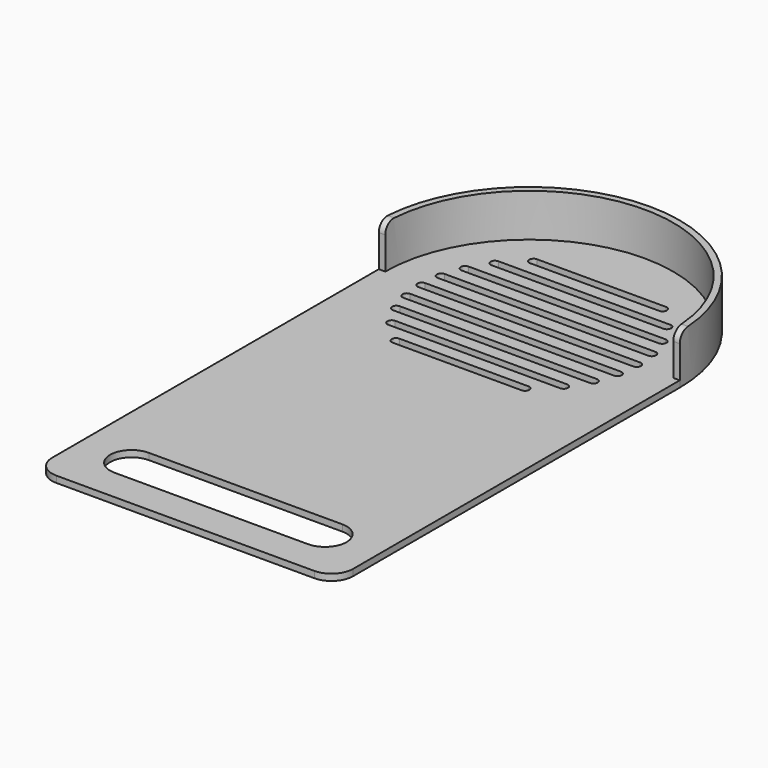
from build123d import *

# Parameters (mm, degrees)
F1_DEPTH = 3
F2_DEPTH = 20
F3_R     = 5


with BuildPart() as f1:
    # F0 (on Top) → F1 (new body)
    with BuildSketch(Plane.XY):
        with BuildLine():
            Line((70, -190), (70, 0))
            Line((70, 0), (67, 0))
            ThreePointArc((67, 0), (0, 67), (-67, 0))
            Line((-67, 0), (-70, 0))
            Line((-70, 0), (-70, -190))
            ThreePointArc((-70, -190), (-67.071068, -197.071068), (-60, -200))
            Line((-60, -200), (60, -200))
            ThreePointArc((60, -200), (67.071068, -197.071068), (70, -190))
        make_face()
        with BuildLine():
            Line((45, -185), (-45, -185))
            ThreePointArc((-45, -185), (-55, -175), (-45, -165))
            Line((-45, -165), (45, -165))
            ThreePointArc((45, -165), (55, -175), (45, -185))
        make_face(mode=Mode.SUBTRACT)
        with BuildLine():
            ThreePointArc((30, -38), (32, -40), (30, -42))
            Line((30, -42), (-30, -42))
            ThreePointArc((-30, -42), (-32, -40), (-30, -38))
            Line((-30, -38), (30, -38))
        make_face(mode=Mode.SUBTRACT)
        with BuildLine():
            ThreePointArc((-40, -32), (-42, -30), (-40, -28))
            Line((-40, -28), (40, -28))
            ThreePointArc((40, -28), (42, -30), (40, -32))
            Line((40, -32), (-40, -32))
        make_face(mode=Mode.SUBTRACT)
        with BuildLine():
            ThreePointArc((45.825757, -18), (47.825757, -20), (45.825757, -22))
            Line((45.825757, -22), (-45.825757, -22))
            ThreePointArc((-45.825757, -22), (-47.825757, -20), (-45.825757, -18))
            Line((-45.825757, -18), (45.825757, -18))
        make_face(mode=Mode.SUBTRACT)
        with BuildLine():
            ThreePointArc((-48.989795, -12), (-50.989795, -10), (-48.989795, -8))
            Line((-48.989795, -8), (48.989795, -8))
            ThreePointArc((48.989795, -8), (50.989795, -10), (48.989795, -12))
            Line((48.989795, -12), (-48.989795, -12))
        make_face(mode=Mode.SUBTRACT)
        with BuildLine():
            Line((50, -2), (-50, -2))
            ThreePointArc((-50, -2), (-52, 0), (-50, 2))
            Line((-50, 2), (50, 2))
            ThreePointArc((50, 2), (52, 0), (50, -2))
        make_face(mode=Mode.SUBTRACT)
        with BuildLine():
            Line((48.989795, 8), (-48.989795, 8))
            ThreePointArc((-48.989795, 8), (-50.989795, 10), (-48.989795, 12))
            Line((-48.989795, 12), (48.989795, 12))
            ThreePointArc((48.989795, 12), (50.989795, 10), (48.989795, 8))
        make_face(mode=Mode.SUBTRACT)
        with BuildLine():
            Line((45.825757, 18), (-45.825757, 18))
            ThreePointArc((-45.825757, 18), (-47.825757, 20), (-45.825757, 22))
            Line((-45.825757, 22), (45.825757, 22))
            ThreePointArc((45.825757, 22), (47.825757, 20), (45.825757, 18))
        make_face(mode=Mode.SUBTRACT)
        with BuildLine():
            Line((40, 28), (-40, 28))
            ThreePointArc((-40, 28), (-42, 30), (-40, 32))
            Line((-40, 32), (40, 32))
            ThreePointArc((40, 32), (42, 30), (40, 28))
        make_face(mode=Mode.SUBTRACT)
        with BuildLine():
            Line((30, 38), (-30, 38))
            ThreePointArc((-30, 38), (-32, 40), (-30, 42))
            Line((-30, 42), (30, 42))
            ThreePointArc((30, 42), (32, 40), (30, 38))
        make_face(mode=Mode.SUBTRACT)
        with BuildLine():
            Line((67, 0), (70, 0))
            ThreePointArc((70, 0), (0, 70), (-70, 0))
            Line((-70, 0), (-67, 0))
            ThreePointArc((-67, 0), (0, 67), (67, 0))
        make_face()
    extrude(amount=-F1_DEPTH)

    # F0 (on Top) → F2 (join)
    with BuildSketch(Plane.XY):
        with BuildLine():
            Line((67, 0), (70, 0))
            ThreePointArc((70, 0), (0, 70), (-70, 0))
            Line((-70, 0), (-67, 0))
            ThreePointArc((-67, 0), (0, 67), (67, 0))
        make_face()
    extrude(amount=F2_DEPTH)

    # F3
    f3_edges = [f1.edges().sort_by_distance(p)[0] for p in [
        (-68.5, 0, 20),
        (68.5, 0, 20),
    ]]
    fillet(f3_edges, radius=F3_R)


solid = f1.part
